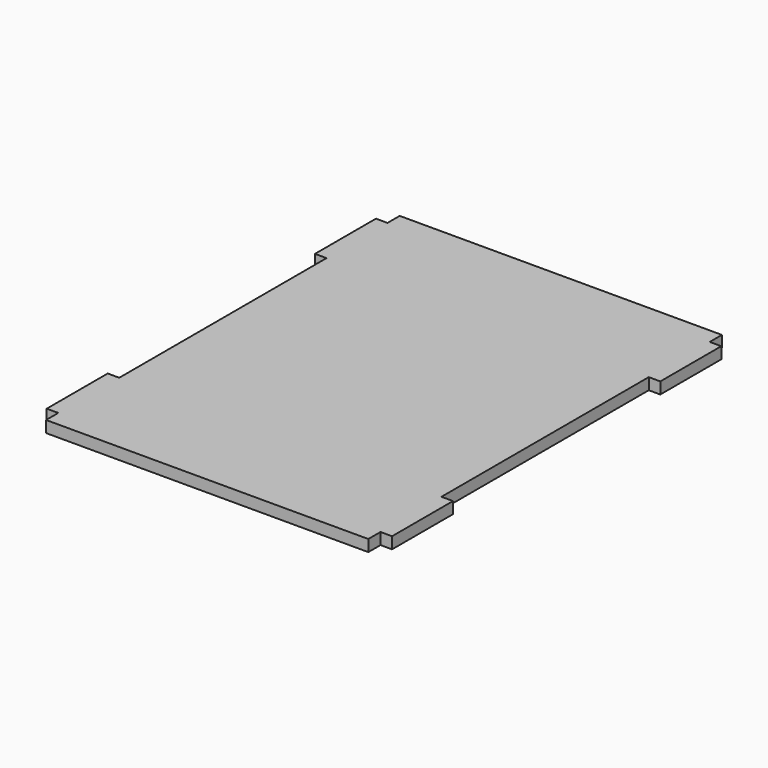
from build123d import *

# Parameters (mm, degrees)
F0_W     = 19.2532
F0_H     = 127
F1_DEPTH = 19.2532


with BuildPart() as f1:
    # F0 (on Top) → F1 (new body)
    with BuildSketch(Plane.XY):
        Polygon((3.400214, 619.258088), (-533.553297, 619.258088), (-533.553297, 593.858088), (-533.553297, 466.858088), (-533.553297, 35.058088), (-533.553297, -91.941912), (-533.553297, -117.341912), (3.400214, -117.341912), (3.400214, -91.941912), (3.400214, 35.058088), (3.400214, 466.858088), (3.400214, 593.858088), align=None)
        with Locations((-543.179897, 530.358088)):
            Rectangle(F0_W, F0_H)
        with Locations((13.026814, 530.358088)):
            Rectangle(F0_W, F0_H)
        with Locations((-543.179897, -28.441912)):
            Rectangle(F0_W, F0_H)
        with Locations((13.026814, -28.441912)):
            Rectangle(F0_W, F0_H)
    extrude(amount=F1_DEPTH)


solid = f1.part
